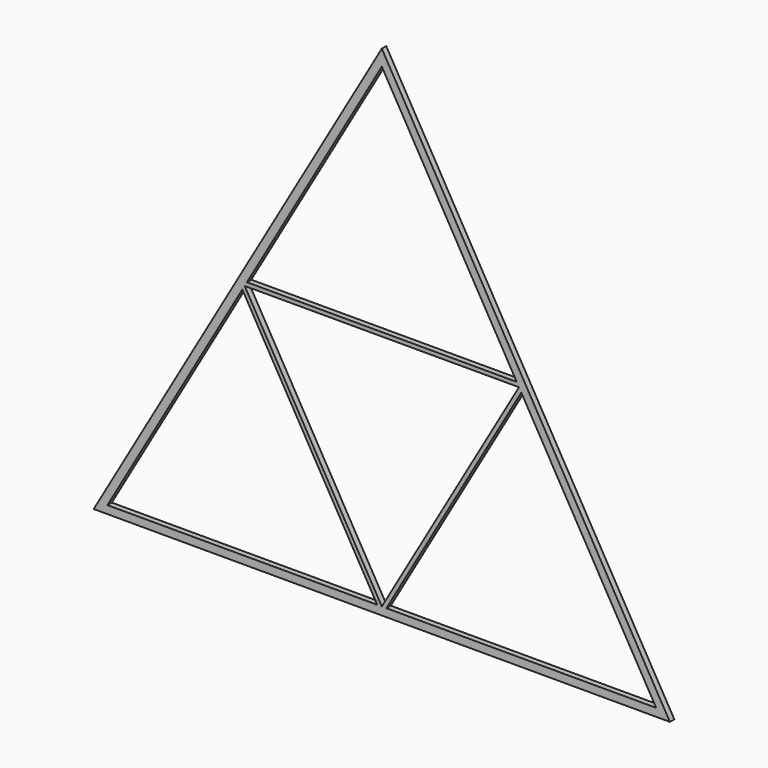
from build123d import *

# Parameters (mm, degrees)
F1_DEPTH = 1
F3_DEPTH = 1


with BuildPart() as f1:
    # F0 (on Front) → F1 (new body)
    with BuildSketch(Plane.XZ):
        Polygon((52.5, -1.443376), (0, 89.489292), (-52.5, -1.443376), align=None)
        Polygon((50, 0), (-50, 0), (0, 86.60254), align=None, mode=Mode.SUBTRACT)
    extrude(amount=F1_DEPTH)

    # F2 (on Front) → F3 (join)
    with BuildSketch(Plane.XZ):
        Polygon((26.25, 44.022958), (-26.25, 44.022958), (0, -1.443376), align=None)
        Polygon((25, 43.30127), (0, 0), (-25, 43.30127), align=None, mode=Mode.SUBTRACT)
    extrude(amount=F3_DEPTH)


solid = f1.part
